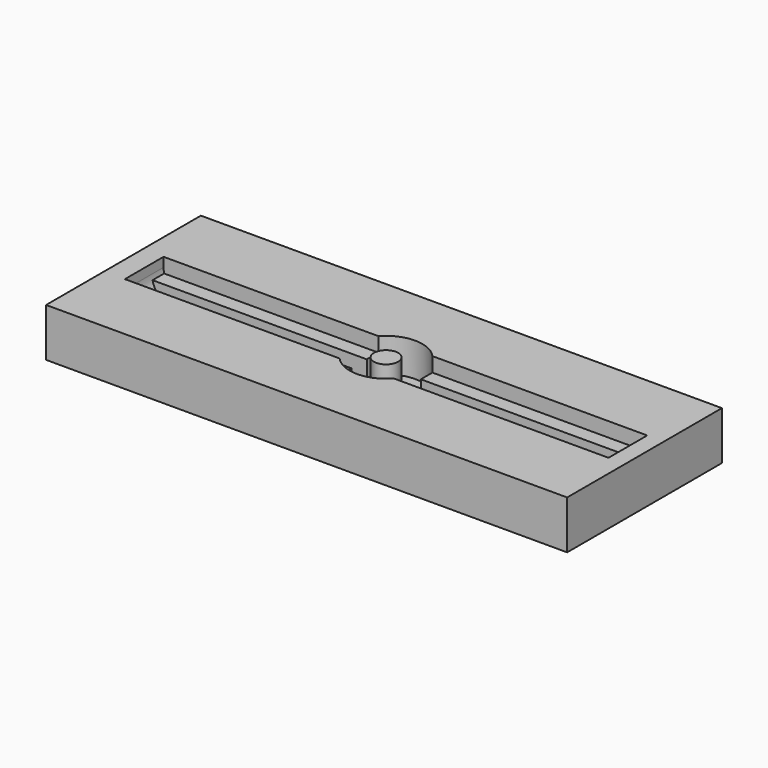
from build123d import *

# Parameters (mm, degrees)
F0_W     = 150
F0_H     = 40
F1_DEPTH = 10
F3_DEPTH = 7
F4_W     = 44.4098300563
F4_H     = 3
F5_DEPTH = 4
F6_R     = 5.08
F7_W     = 20.7056045532
F7_H     = 40
F7_W_2   = 21.5539429337
F8_DEPTH = 25.4


with BuildPart() as f1:
    # F0 (on Top) → F1 (new body)
    with BuildSketch(Plane.XY):
        with Locations((-27.5264725089, -48.8547566533)):
            Rectangle(F0_W, F0_H)
    extrude(amount=F1_DEPTH)

    # F2 (on face) → F3 (cut)
    with BuildSketch(Plane.XY.offset(10)):
        with BuildLine():
            Line((-77.5264725089, -43.8547566533), (-77.5264725089, -48.8547566533))
            Line((-77.5264725089, -48.8547566533), (-77.5264725089, -53.8547566533))
            Line((-77.5264725089, -53.8547566533), (-33.1166424527, -53.8547566533))
            ThreePointArc((-33.1166424527, -53.8547566533), (-27.5264725089, -56.3547566533), (-21.9363025652, -53.8547566533))
            Line((-21.9363025652, -53.8547566533), (22.4735274911, -53.8547566533))
            Line((22.4735274911, -53.8547566533), (22.4735274911, -48.8547566533))
            Line((22.4735274911, -48.8547566533), (22.4735274911, -43.8547566533))
            Line((22.4735274911, -43.8547566533), (-21.9363025652, -43.8547566533))
            ThreePointArc((-21.9363025652, -43.8547566533), (-27.5264725089, -41.3547566533), (-33.1166424527, -43.8547566533))
            Line((-33.1166424527, -43.8547566533), (-77.5264725089, -43.8547566533))
        make_face()
        with BuildLine():
            ThreePointArc((-25.0264725089, -48.8547566533), (-27.5264725089, -51.3547566533), (-30.0264725089, -48.8547566533))
            ThreePointArc((-30.0264725089, -48.8547566533), (-27.5264725089, -46.3547566533), (-25.0264725089, -48.8547566533))
        make_face(mode=Mode.SUBTRACT)
    extrude(amount=-F3_DEPTH, mode=Mode.SUBTRACT)

    # F4 (on face) → F5 (join)
    with BuildSketch(Plane.XY.offset(3)):
        with Locations((-55.3215574808, -45.3547566533)):
            Rectangle(F4_W, F4_H)
        with Locations((-55.3215574808, -52.3547566533)):
            Rectangle(F4_W, F4_H)
        with Locations((0.268612463, -52.3547566533)):
            Rectangle(F4_W, F4_H)
        with Locations((0.268612463, -45.3547566533)):
            Rectangle(F4_W, F4_H)
    extrude(amount=F5_DEPTH)

    # F6
    f6_edges = [f1.edges().sort_by_distance(p)[0] for p in [
        (-77.526473, -48.854757, 3),
        (22.473527, -48.854757, 3),
    ]]
    fillet(f6_edges, radius=F6_R)

    # F7 (on face) → F8 (cut)
    with BuildSketch(Plane.XY.offset(10)):
        with Locations((-92.1736702323, -48.8547566533)):
            Rectangle(F7_W, F7_H)
        with Locations((36.6965560243, -48.8547566533)):
            Rectangle(F7_W_2, F7_H)
    extrude(amount=-F8_DEPTH, mode=Mode.SUBTRACT)


solid = f1.part
